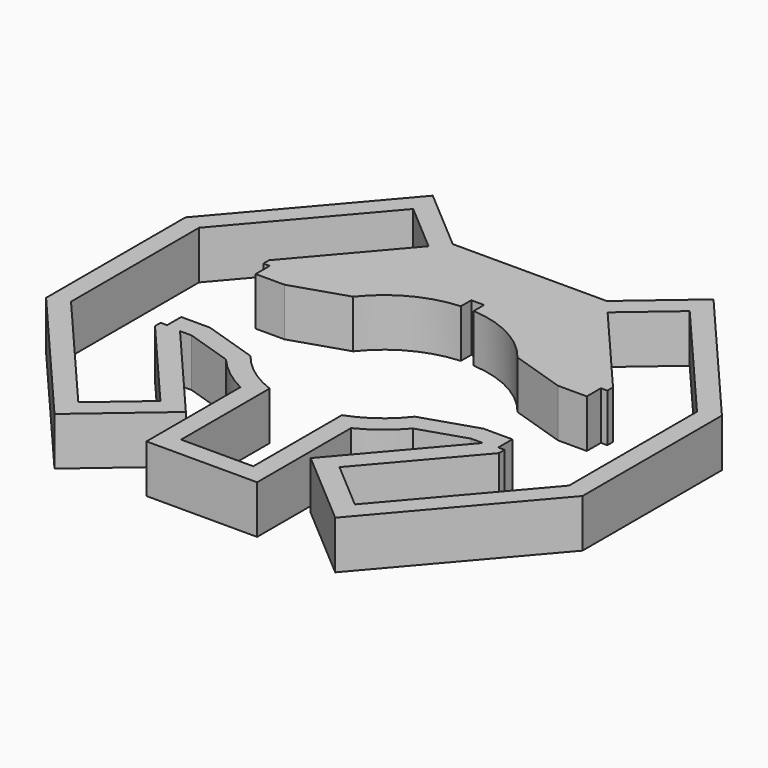
from build123d import *

# Parameters (mm, degrees)
F1_DEPTH = 3


with BuildPart() as f1:
    # F0 (on Top) → F1 (new body)
    with BuildSketch(Plane.XY):
        with BuildLine():
            Line((16.723475, 5.431714), (8.751905, 14.74098))
            Line((8.751905, 14.74098), (4.802136, 11.358773))
            Line((4.802136, 11.358773), (-4.802136, 11.358773))
            Line((-4.802136, 11.358773), (-8.751905, 14.740979))
            Line((-8.751905, 14.740979), (-16.723475, 5.431713))
            Line((-16.723475, 5.431713), (-16.723475, 0))
            Line((-16.723475, 0), (-16.723475, -5.431713))
            Line((-16.723475, -5.431713), (-8.751905, -14.740979))
            Line((-8.751905, -14.740979), (-3.890651, -10.578264))
            Line((-3.890651, -10.578264), (-9.43802, -4.1))
            Line((-9.43802, -4.1), (-8.712763, -4.1))
            Line((-8.712763, -4.1), (-5.826839, -5.033681))
            ThreePointArc((-5.826839, -5.033681), (-4.72977, -6.076123), (-3.45, -6.883858))
            Line((-3.45, -6.883858), (-3.45, -14.2))
            Line((-3.45, -14.2), (3.45, -14.2))
            Line((3.45, -14.2), (3.45, -6.883857))
            ThreePointArc((3.45, -6.883857), (4.72977, -6.076123), (5.826838, -5.033681))
            Line((5.826838, -5.033681), (8.712763, -4.099999))
            Line((8.712763, -4.099999), (9.43802, -4.099999))
            Line((9.43802, -4.099999), (3.890651, -10.578264))
            Line((3.890651, -10.578264), (8.751905, -14.74098))
            Line((8.751905, -14.74098), (16.723475, -5.431714))
            Line((16.723475, -5.431714), (16.723475, 0))
            Line((16.723475, 0), (16.723475, 5.431714))
        make_face()
        with BuildLine():
            ThreePointArc((-2.25, -6.098155), (-3.833093, -5.249514), (-5.123475, -4))
            Line((-5.123475, -4), (-8.523475, -2.9))
            Line((-8.523475, -2.9), (-10.323475, -2.9))
            Line((-10.323475, -2.9), (-10.323475, -4))
            Line((-10.323475, -4), (-10.723475, -4))
            Line((-10.723475, -4), (-10.723475, -4.443783))
            Line((-10.723475, -4.443783), (-5.582645, -10.447288))
            Line((-5.582645, -10.447288), (-8.620929, -13.048985))
            Line((-8.620929, -13.048985), (-15.523475, -4.988134))
            Line((-15.523475, -4.988134), (-15.523475, 0))
            Line((-15.523475, 0), (-15.523475, 4.988134))
            Line((-15.523475, 4.988134), (-8.620929, 13.048985))
            Line((-8.620929, 13.048985), (-5.582645, 10.447288))
            Line((-5.582645, 10.447288), (-10.723475, 4.443783))
            Line((-10.723475, 4.443783), (-10.723475, 4))
            Line((-10.723475, 4), (-10.323475, 4))
            Line((-10.323475, 4), (-10.323475, 2.9))
            Line((-10.323475, 2.9), (-8.523475, 2.9))
            Line((-8.523475, 2.9), (-5.123475, 4))
            ThreePointArc((-5.123475, 4), (-3.028916, 5.751145), (-0.4, 6.487681))
            Line((-0.4, 6.487681), (-0.4, 7.3))
            Line((-0.4, 7.3), (0, 7.3))
            Line((0, 7.3), (0.4, 7.3))
            Line((0.4, 7.3), (0.4, 6.487681))
            ThreePointArc((0.4, 6.487681), (3.028916, 5.751145), (5.123475, 4))
            Line((5.123475, 4), (8.523475, 2.9))
            Line((8.523475, 2.9), (10.323475, 2.9))
            Line((10.323475, 2.9), (10.323475, 4))
            Line((10.323475, 4), (10.723475, 4))
            Line((10.723475, 4), (10.723475, 4.443783))
            Line((10.723475, 4.443783), (5.582645, 10.447288))
            Line((5.582645, 10.447288), (8.620929, 13.048985))
            Line((8.620929, 13.048985), (15.523475, 4.988134))
            Line((15.523475, 4.988134), (15.523475, 0))
            Line((15.523475, 0), (15.523475, -4.988134))
            Line((15.523475, -4.988134), (8.620929, -13.048985))
            Line((8.620929, -13.048985), (5.582645, -10.447288))
            Line((5.582645, -10.447288), (10.723475, -4.443783))
            Line((10.723475, -4.443783), (10.723475, -4))
            Line((10.723475, -4), (10.323475, -4))
            Line((10.323475, -4), (10.323475, -2.9))
            Line((10.323475, -2.9), (8.523475, -2.9))
            Line((8.523475, -2.9), (5.123475, -4))
            ThreePointArc((5.123475, -4), (3.833093, -5.249514), (2.25, -6.098155))
            Line((2.25, -6.098155), (2.25, -13))
            Line((2.25, -13), (-2.25, -13))
            Line((-2.25, -13), (-2.25, -6.098155))
        make_face(mode=Mode.SUBTRACT)
    extrude(amount=F1_DEPTH)


solid = f1.part
